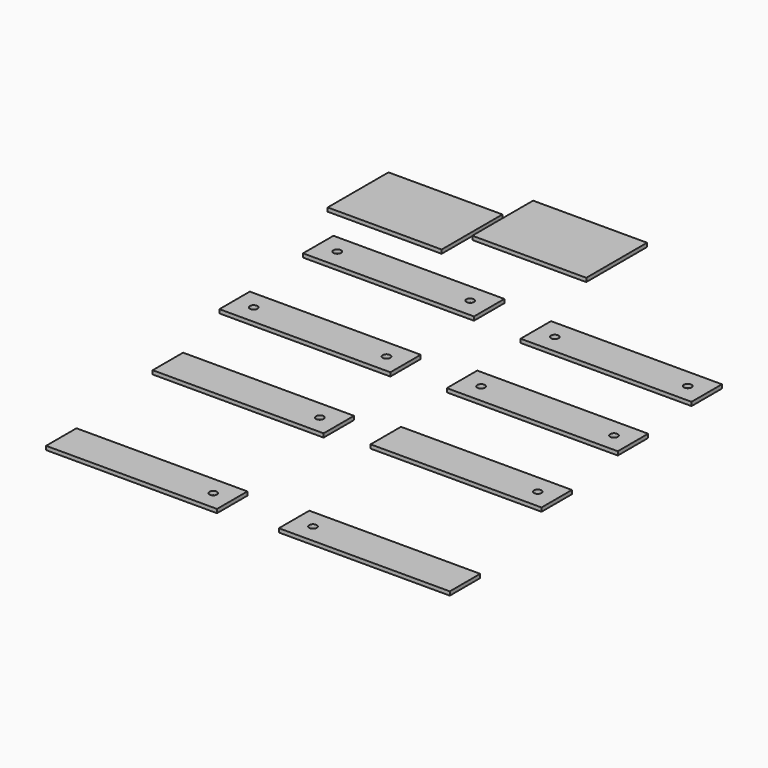
from build123d import *

# Parameters (mm, degrees)
F0_W      = 300
F0_H      = 200
F1_DEPTH  = 10
F2_W      = 300
F2_H      = 200
F3_DEPTH  = 10
F4_W      = 450
F4_H      = 100
F5_DEPTH  = 10
F6_W      = 450
F6_H      = 100
F7_DEPTH  = 10
F8_W      = 450
F8_H      = 100
F9_DEPTH  = 10
F10_W     = 450
F10_H     = 100
F11_DEPTH = 10
F12_W     = 450
F12_H     = 100
F13_DEPTH = 10
F14_W     = 450
F14_H     = 100
F15_DEPTH = 10
F16_W     = 450
F16_H     = 100
F17_DEPTH = 10
F18_W     = 450
F18_H     = 100
F19_DEPTH = 10
F20_R     = 10
F21_DEPTH = 25
F22_R     = 10
F23_DEPTH = 25
F24_R     = 10
F25_DEPTH = 25
F26_R     = 10
F27_DEPTH = 25
F28_R     = 10
F29_DEPTH = 25
F30_R     = 10
F31_DEPTH = 25
F32_R     = 10
F33_DEPTH = 25
F34_R     = 10
F35_DEPTH = 25
F36_R     = 10
F37_DEPTH = 25
F38_R     = 10
F39_DEPTH = 25
F40_R     = 10
F41_DEPTH = 25
F42_DEPTH = 25
F43_R     = 10
F44_DEPTH = 25


with BuildPart() as f1:
    # F0 (on Top) → F1 (new body)
    with BuildSketch(Plane.XY):
        with Locations((-130.829999893, -29.5446265955)):
            Rectangle(F0_W, F0_H)
    extrude(amount=F1_DEPTH)

    # F40 (on face) → F42 (cut)
    with BuildSketch(Plane.XY.offset(10)):
        with Locations((290.9220486879, -870.1667009159)):
            Circle(F40_R)
    extrude(amount=-F42_DEPTH, mode=Mode.SUBTRACT)


with BuildPart() as f3:
    # F2 (on Top) → F3 (new body)
    with BuildSketch(Plane.XY):
        with Locations((179.9916743715, 57.8253399581)):
            Rectangle(F2_W, F2_H)
    extrude(amount=F3_DEPTH)


with BuildPart() as f5:
    # F4 (on Top) → F5 (new body)
    with BuildSketch(Plane.XY):
        with Locations((32.2255682353, -270.7102075219)):
            Rectangle(F4_W, F4_H)
    extrude(amount=F5_DEPTH)

    # F20 (on face) → F21 (cut)
    with BuildSketch(Plane.XY.offset(10)):
        with Locations((-142.7744317647, -270.7102075219)):
            Circle(F20_R)
    extrude(amount=-F21_DEPTH, mode=Mode.SUBTRACT)

    # F28 (on face) → F29 (cut)
    with BuildSketch(Plane.XY.offset(10)):
        with Locations((207.2255682353, -270.7102075219)):
            Circle(F28_R)
    extrude(amount=-F29_DEPTH, mode=Mode.SUBTRACT)


with BuildPart() as f7:
    # F6 (on Top) → F7 (new body)
    with BuildSketch(Plane.XY):
        with Locations((53.2675758004, -572.1820970584)):
            Rectangle(F6_W, F6_H)
    extrude(amount=F7_DEPTH)

    # F22 (on face) → F23 (cut)
    with BuildSketch(Plane.XY.offset(10)):
        with Locations((-121.7324241996, -572.1820970584)):
            Circle(F22_R)
    extrude(amount=-F23_DEPTH, mode=Mode.SUBTRACT)

    # F34 (on face) → F35 (cut)
    with BuildSketch(Plane.XY.offset(10)):
        with Locations((228.2675758004, -572.1820970584)):
            Circle(F34_R)
    extrude(amount=-F35_DEPTH, mode=Mode.SUBTRACT)


with BuildPart() as f9:
    # F8 (on Top) → F9 (new body)
    with BuildSketch(Plane.XY):
        with Locations((618.9378350973, -288.1281608172)):
            Rectangle(F8_W, F8_H)
    extrude(amount=F9_DEPTH)

    # F30 (on face) → F31 (cut)
    with BuildSketch(Plane.XY.offset(10)):
        with Locations((443.9378350973, -288.1281608172)):
            Circle(F30_R)
    extrude(amount=-F31_DEPTH, mode=Mode.SUBTRACT)

    # F32 (on face) → F33 (cut)
    with BuildSketch(Plane.XY.offset(10)):
        with Locations((793.9378350973, -288.1281608172)):
            Circle(F32_R)
    extrude(amount=-F33_DEPTH, mode=Mode.SUBTRACT)


with BuildPart() as f11:
    # F10 (on Top) → F11 (new body)
    with BuildSketch(Plane.XY):
        with Locations((637.9677504301, -554.6679184214)):
            Rectangle(F10_W, F10_H)
    extrude(amount=F11_DEPTH)

    # F36 (on face) → F37 (cut)
    with BuildSketch(Plane.XY.offset(10)):
        with Locations((462.9677504301, -554.6679184214)):
            Circle(F36_R)
    extrude(amount=-F37_DEPTH, mode=Mode.SUBTRACT)

    # F38 (on face) → F39 (cut)
    with BuildSketch(Plane.XY.offset(10)):
        with Locations((812.9677504301, -554.6679184214)):
            Circle(F38_R)
    extrude(amount=-F39_DEPTH, mode=Mode.SUBTRACT)


with BuildPart() as f13:
    # F12 (on Top) → F13 (new body)
    with BuildSketch(Plane.XY):
        with Locations((115.9220486879, -870.1667009159)):
            Rectangle(F12_W, F12_H)
    extrude(amount=F13_DEPTH)

    # F40 (on face) → F41 (cut)
    with BuildSketch(Plane.XY.offset(10)):
        with Locations((290.9220486879, -870.1667009159)):
            Circle(F40_R)
    extrude(amount=-F41_DEPTH, mode=Mode.SUBTRACT)


with BuildPart() as f15:
    # F14 (on Top) → F15 (new body)
    with BuildSketch(Plane.XY):
        with Locations((671.9541549683, -848.0891854066)):
            Rectangle(F14_W, F14_H)
    extrude(amount=F15_DEPTH)

    # F26 (on face) → F27 (cut)
    with BuildSketch(Plane.XY.offset(10)):
        with Locations((846.9541549683, -848.0891854066)):
            Circle(F26_R)
    extrude(amount=-F27_DEPTH, mode=Mode.SUBTRACT)


with BuildPart() as f17:
    # F16 (on Top) → F17 (new body)
    with BuildSketch(Plane.XY):
        with Locations((155.070245266, -1269.9513289308)):
            Rectangle(F16_W, F16_H)
    extrude(amount=F17_DEPTH)

    # F24 (on face) → F25 (cut)
    with BuildSketch(Plane.XY.offset(10)):
        with Locations((330.070245266, -1269.9513289308)):
            Circle(F24_R)
    extrude(amount=-F25_DEPTH, mode=Mode.SUBTRACT)


with BuildPart() as f19:
    # F18 (on Top) → F19 (new body)
    with BuildSketch(Plane.XY):
        with Locations((758.0249905586, -1257.4952262085)):
            Rectangle(F18_W, F18_H)
    extrude(amount=F19_DEPTH)

    # F43 (on face) → F44 (cut)
    with BuildSketch(Plane.XY.offset(10)):
        with Locations((583.0249905586, -1257.4952262085)):
            Circle(F43_R)
    extrude(amount=-F44_DEPTH, mode=Mode.SUBTRACT)


solid = Compound([f1.part, f3.part, f5.part, f7.part, f9.part, f11.part, f13.part, f15.part, f17.part, f19.part])
